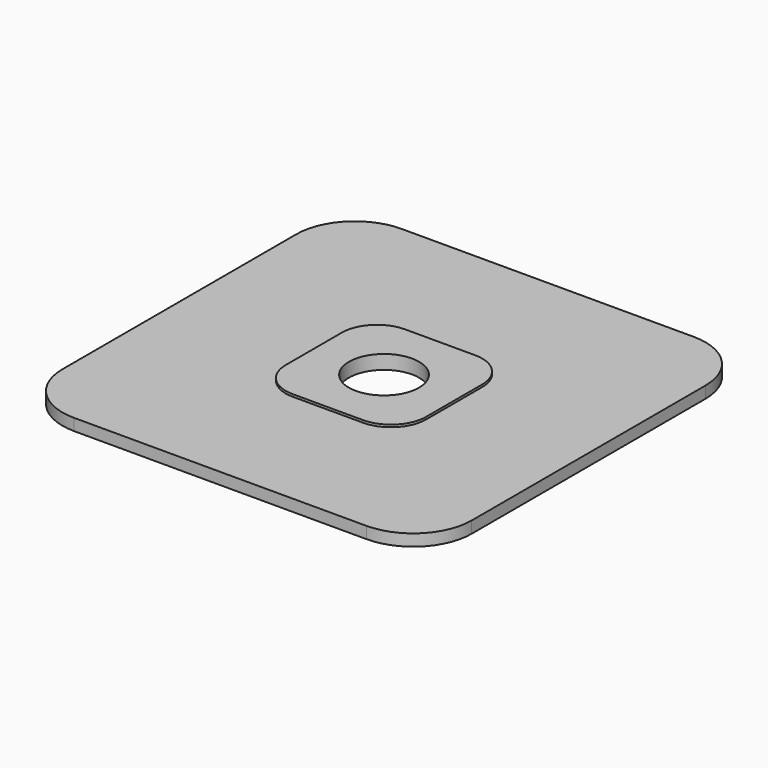
from build123d import *

# Parameters (mm, degrees)
F0_W     = 35
F0_H     = 35
F0_W_2   = 12
F0_H_2   = 12
F1_DEPTH = 1
F2_DEPTH = 1.2
F3_R     = 3
F4_R     = 5
F5_R     = 3
F6_DEPTH = 25


with BuildPart() as f1:
    # F0 (on Top) → F1 (new body)
    with BuildSketch(Plane.XY):
        Rectangle(F0_W, F0_H)
        Rectangle(F0_W_2, F0_H_2, mode=Mode.SUBTRACT)
    extrude(amount=F1_DEPTH)

    # F0 (on Top) → F2 (join)
    with BuildSketch(Plane.XY):
        Rectangle(F0_W_2, F0_H_2)
    extrude(amount=F2_DEPTH)

    # F3
    f3_edges = [f1.edges().sort_by_distance(p)[0] for p in [
        (-6, -6, 1.1),
        (6, -6, 1.1),
        (6, 6, 1.1),
        (-6, 6, 1.1),
    ]]
    fillet(f3_edges, radius=F3_R)

    # F4
    f4_edges = [f1.edges().sort_by_distance(p)[0] for p in [
        (-17.5, -17.5, 0.5),
        (17.5, -17.5, 0.5),
        (17.5, 17.5, 0.5),
        (-17.5, 17.5, 0.5),
    ]]
    fillet(f4_edges, radius=F4_R)

    # F5 (on face) → F6 (cut)
    with BuildSketch(Plane.XY.offset(1.2)):
        Circle(F5_R)
    extrude(amount=-F6_DEPTH, mode=Mode.SUBTRACT)


solid = f1.part
